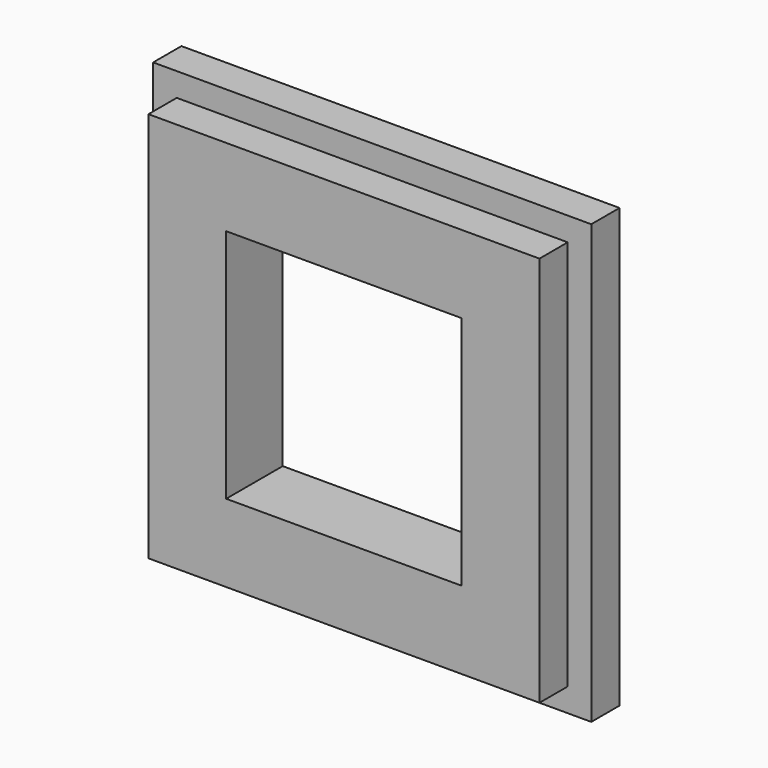
from build123d import *

# Parameters (mm, degrees)
F0_W     = 37.2
F0_H     = 37.2
F0_W_2   = 33.2
F0_H_2   = 33.2
F1_DEPTH = 3
F0_W_3   = 20
F0_H_3   = 20
F2_DEPTH = 6


with BuildPart() as f1:
    # F0 (on Front) → F1 (new body)
    with BuildSketch(Plane.XZ):
        Rectangle(F0_W, F0_H)
        Rectangle(F0_W_2, F0_H_2, mode=Mode.SUBTRACT)
    extrude(amount=F1_DEPTH)

    # F0 (on Front) → F2 (join)
    with BuildSketch(Plane.XZ):
        Rectangle(F0_W_2, F0_H_2)
        Rectangle(F0_W_3, F0_H_3, mode=Mode.SUBTRACT)
    extrude(amount=F2_DEPTH)


solid = f1.part
